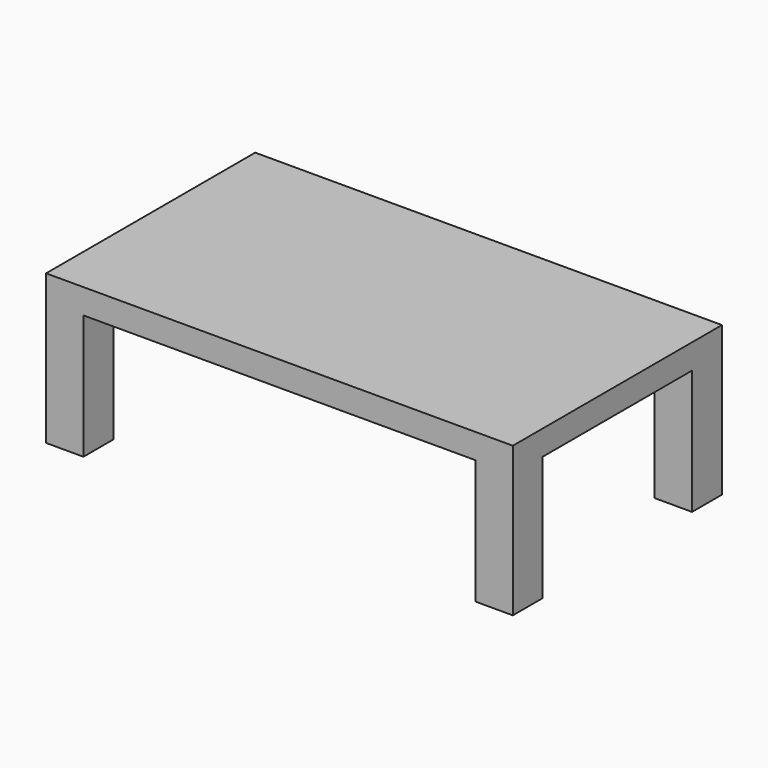
from build123d import *

# Parameters (mm, degrees)
F0_W     = 1905
F0_H     = 1066.8
F1_DEPTH = 609.6
F3_DEPTH = 508


with BuildPart() as f1:
    # F0 (on Top) → F1 (new body)
    with BuildSketch(Plane.XY):
        Rectangle(F0_W, F0_H)
    extrude(amount=F1_DEPTH)

    # F2 (on face) → F3 (cut)
    with BuildSketch(Plane(origin=(0, 0, 0), x_dir=(1, 0, 0), z_dir=(0, 0, -1))):
        Polygon((952.5, -381), (952.5, 381), (800.1, 381), (800.1, 533.4), (-800.1, 533.4), (-800.1, 381), (-952.5, 381), (-952.5, -381), (-800.1, -381), (-800.1, -533.4), (800.1, -533.4), (800.1, -381), align=None)
    extrude(amount=-F3_DEPTH, mode=Mode.SUBTRACT)


solid = f1.part
